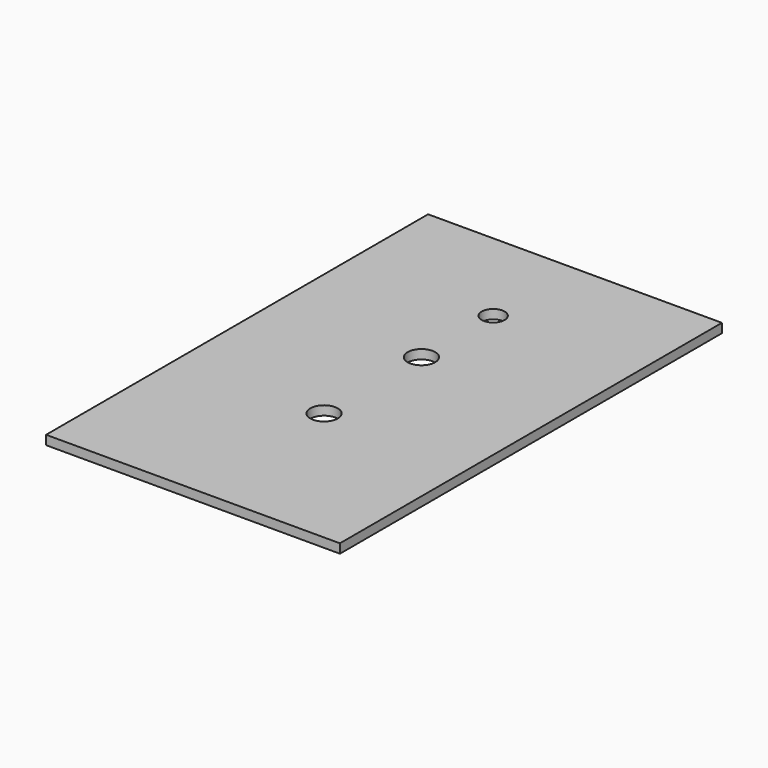
from build123d import *

# Parameters (mm, degrees)
F0_W     = 81.28
F0_H     = 132.08
F1_DEPTH = 2.54
F2_R     = 3.175
F5_DEPTH = 2.54
F4_R     = 3.81
F6_DEPTH = 2.54
F3_R     = 3.81
F7_DEPTH = 2.54


with BuildPart() as f1:
    # F0 (on Top) → F1 (new body)
    with BuildSketch(Plane.XY):
        with Locations((-118.42192, -3.005858)):
            Rectangle(F0_W, F0_H)
    extrude(amount=F1_DEPTH)

    # F2 (on face) → F5 (cut)
    with BuildSketch(Plane.XY.offset(2.54)):
        with Locations((-118.42192, 34.752253)):
            Circle(F2_R)
    extrude(amount=-F5_DEPTH, mode=Mode.SUBTRACT)

    # F4 (on face) → F6 (cut)
    with BuildSketch(Plane.XY.offset(2.54)):
        with Locations((-118.42192, -23.734093)):
            Circle(F4_R)
    extrude(amount=-F6_DEPTH, mode=Mode.SUBTRACT)

    # F3 (on face) → F7 (cut)
    with BuildSketch(Plane.XY.offset(2.54)):
        with Locations((-118.42192, 9.941366)):
            Circle(F3_R)
    extrude(amount=-F7_DEPTH, mode=Mode.SUBTRACT)


solid = f1.part
